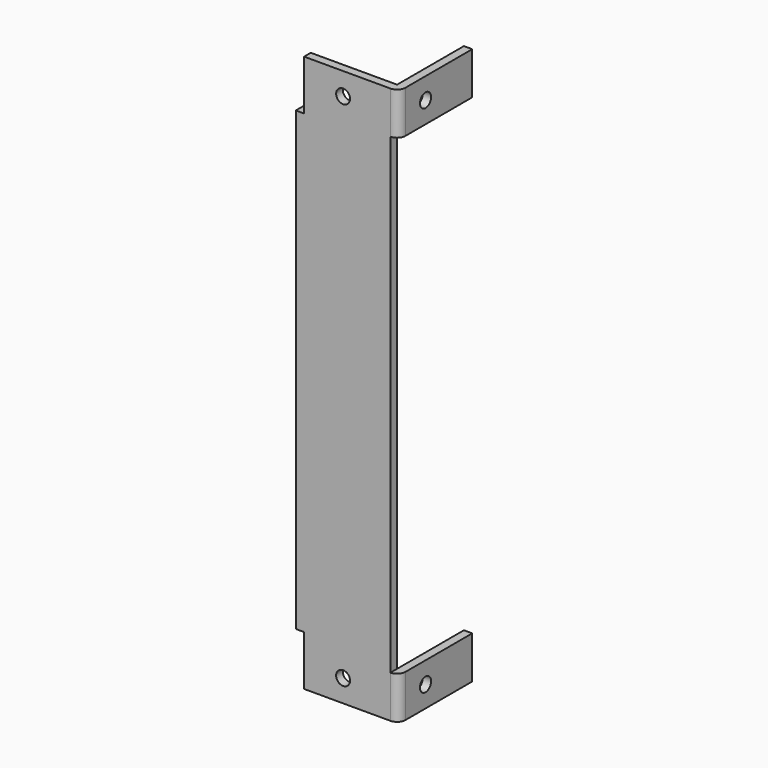
from build123d import *

# Parameters (mm, degrees)
F0_W      = 17
F0_H      = 100
F1_DEPTH  = 1.5
F3_D      = 2.5
F4_W      = 1.5
F4_H      = 7.62
F5_ANGLE  = 90
F6_W      = 1.5
F6_H      = 7.62
F7_DEPTH  = 15
F9_D      = 2.5
F10_W     = 1.5
F10_H     = 9
F11_DEPTH = 1.501


with BuildPart() as f1:
    # F0 (on Front) → F1 (new body)
    with BuildSketch(Plane.XZ):
        with Locations((8.5, 50)):
            Rectangle(F0_W, F0_H)
    extrude(amount=F1_DEPTH)

    # F3 (through all)
    with Locations(Plane.XZ.offset(1.5)):
        with Locations((8.5, 96), (8.5, 4)):
            Hole(F3_D / 2)

    # F4 (on face) → F5 (revolve)
    with BuildSketch(Plane.YZ.offset(17)):
        with Locations((-0.75, 96.19)):
            Rectangle(F4_W, F4_H)
        with Locations((-0.75, 3.81)):
            Rectangle(F4_W, F4_H)
    revolve(axis=Axis((17, 0, 50), (0, 0, 1)), revolution_arc=F5_ANGLE)

    # F6 (on face) → F7 (join)
    with BuildSketch(Plane(origin=(0, 0, 0), x_dir=(-1, 0, 0), z_dir=(0, 1, 0))):
        with Locations((-17.75, 3.81)):
            Rectangle(F6_W, F6_H)
        with Locations((-17.75, 96.19)):
            Rectangle(F6_W, F6_H)
    extrude(amount=F7_DEPTH)

    # F9 (through all)
    with Locations(Plane(origin=(17, 0, 0), x_dir=(0, -1, 0), z_dir=(-1, 0, 0))):
        with Locations((-4.5145543722, 96.19), (-4.5145543722, 3.81)):
            Hole(F9_D / 2)

    # F10 (on face) → F11 (cut, through all)
    with BuildSketch(Plane(origin=(0, 0, 0), x_dir=(-1, 0, 0), z_dir=(0, 1, 0))):
        with Locations((-0.75, 95.5)):
            Rectangle(F10_W, F10_H)
        with Locations((-0.75, 4.5)):
            Rectangle(F10_W, F10_H)
    extrude(amount=-F11_DEPTH, mode=Mode.SUBTRACT)


solid = f1.part
